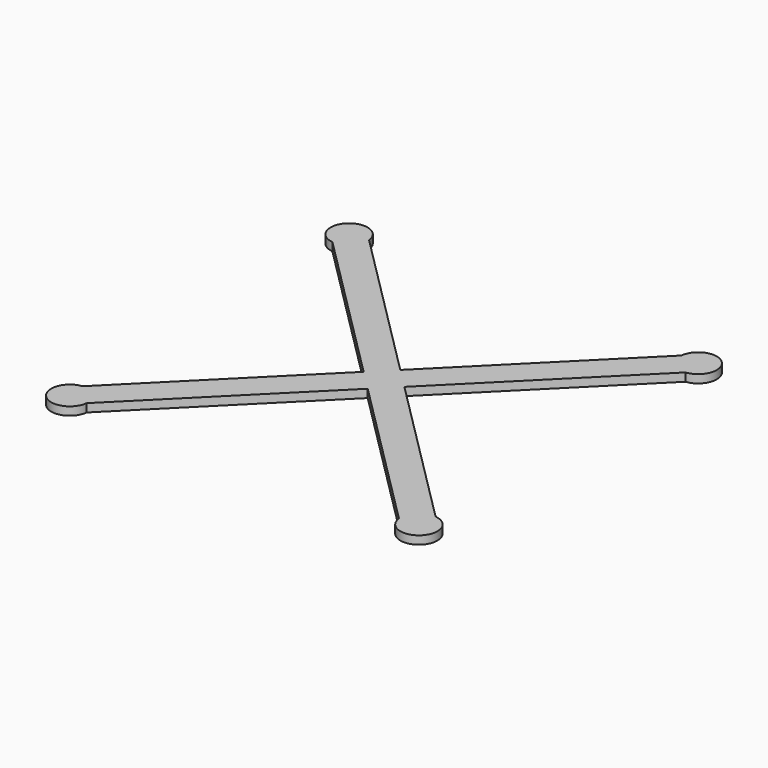
from build123d import *

# Parameters (mm, degrees)
PAD_DEPTH    = 10
PAD001_DEPTH = 10
PAD002_DEPTH = 10
PAD003_DEPTH = 10
SKETCH002_R  = 22.5
PAD004_DEPTH = 10


with BuildPart() as part:
    # Sketch005 → Pad (new body)
    with BuildSketch(Plane(origin=(0, 0, 5), x_dir=(0, -1, 0), z_dir=(0, 0, 1))):
        Polygon((12.374369, -12.374369), (224.506403, 199.757666), (199.757666, 224.506403), (-12.374369, 12.374369), align=None)
    extrude(amount=PAD_DEPTH)

    # Sketch004 → Pad001 (join)
    with BuildSketch(Plane(origin=(0, 0, 5), x_dir=(-1, 0, 0), z_dir=(0, 0, 1))):
        Polygon((12.374369, -12.374369), (224.506403, 199.757666), (199.757666, 224.506403), (-12.374369, 12.374369), align=None)
    extrude(amount=PAD001_DEPTH)

    # Sketch001 → Pad002 (join)
    with BuildSketch(Plane.XY.offset(5)):
        Polygon((12.374369, -12.374369), (224.506403, 199.757666), (199.757666, 224.506403), (-12.374369, 12.374369), align=None)
    extrude(amount=PAD002_DEPTH)

    # Sketch003 → Pad003 (join)
    with BuildSketch(Plane(origin=(0, 0, 5), x_dir=(0, 1, 0), z_dir=(0, 0, 1))):
        Polygon((12.374369, -12.374369), (224.506403, 199.757666), (199.757666, 224.506403), (-12.374369, 12.374369), align=None)
    extrude(amount=PAD003_DEPTH)

    # Sketch002 → Pad004 (join)
    with BuildSketch(Plane.XY.offset(5)):
        with Locations((212.132034, 212.132034)):
            Circle(SKETCH002_R)
        with Locations((212.132034, -212.132034)):
            Circle(SKETCH002_R)
        with Locations((-212.132034, -212.132034)):
            Circle(SKETCH002_R)
        with Locations((-212.132034, 212.132034)):
            Circle(SKETCH002_R)
    extrude(amount=PAD004_DEPTH)


solid = part.part
